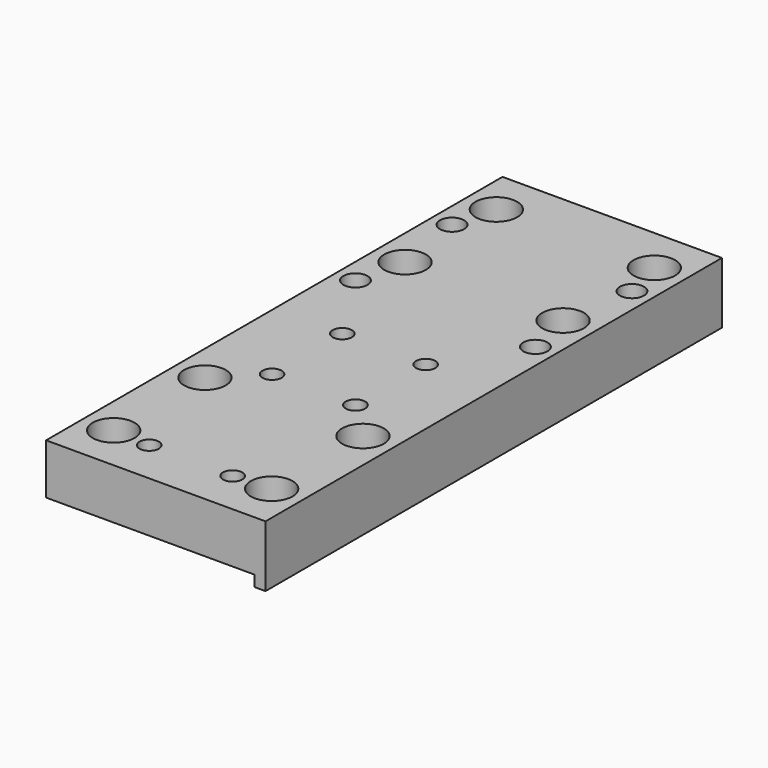
from build123d import *

# Parameters (mm, degrees)
F1_DEPTH       = 260
F3_D           = 11
F3_DEPTH       = 30
F3_CBORE_D     = 19
F3_CBORE_DEPTH = 13
F3_TIP         = 3.3047334047
F4_D           = 8.8
F4_DEPTH       = 30
F4_TIP         = 2.6437867237
F5_D           = 11
F5_DEPTH       = 30
F5_TIP         = 3.3047334047


with BuildPart() as f1:
    # F0 (on Front) → F1 (new body)
    with BuildSketch(Plane.XZ):
        Polygon((100, 23), (0, 23), (0, 0), (95, 0), (95, -5), (100, -5), align=None)
    extrude(amount=-F1_DEPTH)

    # F3
    with Locations(Plane.XY.offset(23)):
        with Locations((14, 239), (86, 239), (14, 187), (86, 187), (86, 73), (86, 21), (14, 73), (14, 21)):
            CounterBoreHole(F3_D / 2, F3_CBORE_D / 2, F3_CBORE_DEPTH, depth=F3_DEPTH)
            with Locations((0, 0, -(F3_DEPTH + F3_TIP / 2))):  # 118° drill point
                Cone(0, F3_D / 2, F3_TIP, mode=Mode.SUBTRACT)

    # F4
    with Locations(Plane.XY.offset(23)):
        with Locations((31, 20), (69, 20), (31, 90), (69, 90), (31, 130), (69, 130)):
            Hole(F4_D / 2, depth=F4_DEPTH)
            with Locations((0, 0, -(F4_DEPTH + F4_TIP / 2))):  # 118° drill point
                Cone(0, F4_D / 2, F4_TIP, mode=Mode.SUBTRACT)

    # F5
    with Locations(Plane.XY.offset(23)):
        with Locations((9, 220), (91, 220), (91, 165), (9, 165)):
            Hole(F5_D / 2, depth=F5_DEPTH)
            with Locations((0, 0, -(F5_DEPTH + F5_TIP / 2))):  # 118° drill point
                Cone(0, F5_D / 2, F5_TIP, mode=Mode.SUBTRACT)


solid = f1.part
